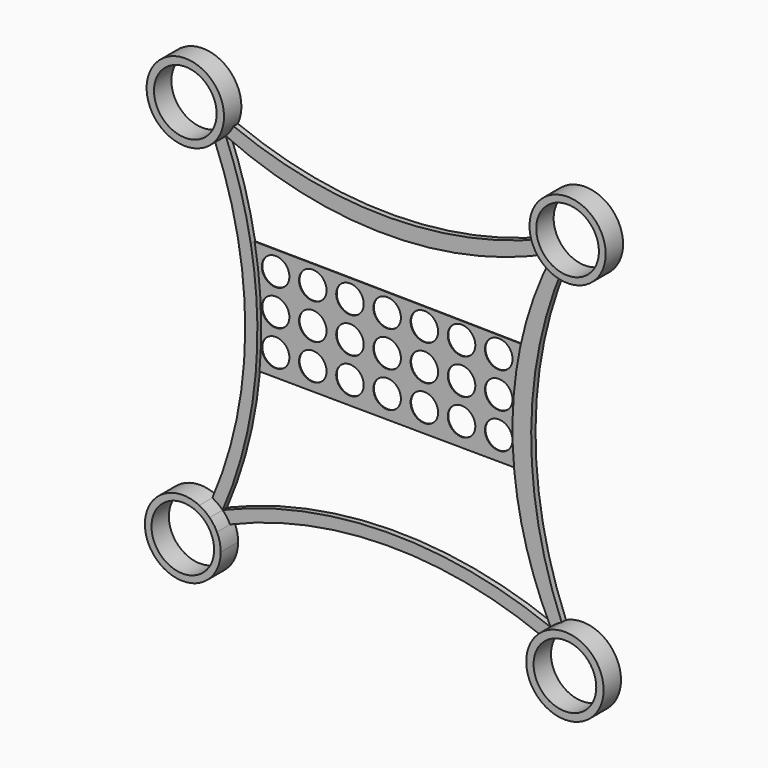
from build123d import *

# Parameters (mm, degrees)
F0_R     = 36.5947560904
F0_R_2   = 36.5964348683
F1_DEPTH = 6.35
F2_DEPTH = 25.4
F0_R_3   = 16.0861270077
F4_DEPTH = 0.762


with BuildPart() as f1:
    # F0 (on Front) → F1 (new body)
    with BuildSketch(Plane.XZ):
        with BuildLine():
            ThreePointArc((188.5982540505, 184.8449959839), (6.2169992483, 146.7538533434), (-176.8098994137, 181.6108700985))
            ThreePointArc((-176.8098994137, 181.6108700985), (-180.7223168449, 174.7262392004), (-185.7909638385, 168.6423284177))
            ThreePointArc((-185.7909638385, 168.6423284177), (6.1536082496, 128.2088675402), (197.1884370844, 172.7428734756))
            ThreePointArc((197.1884370844, 172.7428734756), (192.3851525579, 178.4332152803), (188.5982540505, 184.8449959839))
        make_face()
        with BuildLine():
            ThreePointArc((-189.4134185263, -217.1728797195), (-184.6334375627, -222.8381994872), (-180.8650399113, -229.2212430576))
            ThreePointArc((-180.8650399113, -229.2212430577), (1.5143996628, -191.1214074538), (184.542960009, -225.969700813))
            ThreePointArc((184.542960009, -225.969700813), (188.4782832358, -219.102761645), (193.5517747378, -213.0281170945))
            ThreePointArc((193.5517747378, -213.0281170945), (1.6628304665, -177.5550425479), (-189.4134185263, -217.1728797195))
        make_face()
        with BuildLine():
            ThreePointArc((-185.7909638385, 168.6423284177), (-180.7223168449, 174.7262392004), (-176.8098994137, 181.6108700985))
            ThreePointArc((-176.8098994137, 181.6108700985), (-185.818640213, 168.6699018858), (-198.7259600139, 159.613016956))
            ThreePointArc((-198.7259600139, 159.613016956), (-191.8559511005, 163.5510533052), (-185.7909638385, 168.6423284177))
        make_face()
        with BuildLine():
            ThreePointArc((209.2824572603, 164.1388911845), (197.1933772998, 172.7468130702), (188.5982540505, 184.8449959839))
            ThreePointArc((188.5982540505, 184.8449959839), (192.3851525579, 178.4332152803), (197.1884370844, 172.7428734756))
            ThreePointArc((197.1884370844, 172.7428734756), (202.8741139753, 167.9329813574), (209.2824572603, 164.1388911845))
        make_face()
        with BuildLine():
            ThreePointArc((-189.4134185263, -217.1728797195), (-189.4317221538, -217.1805770734), (-189.4500254799, -217.1882751439))
            ThreePointArc((-189.4500254799, -217.1882751439), (-184.6593067493, -222.8492971242), (-180.8650399113, -229.2212430576))
            ThreePointArc((-180.8650399113, -229.2212430576), (-184.6334375627, -222.8381994872), (-189.4134185263, -217.1728797195))
        make_face()
        with BuildLine():
            ThreePointArc((-189.4343998959, -217.1518790975), (-195.0954466485, -212.3666234088), (-201.4751684195, -208.5923324203))
            ThreePointArc((-201.4751684195, -208.5923324203), (-195.1066812913, -212.3924018294), (-189.4500254799, -217.1882751439))
            ThreePointArc((-189.4500254799, -217.1882751439), (-189.4422123275, -217.1700772754), (-189.4343998959, -217.1518790975))
        make_face()
        with BuildLine():
            ThreePointArc((193.5611194533, -213.0318108647), (199.6168571715, -207.9342533355), (206.4672712931, -203.9682883284))
            ThreePointArc((206.4672712931, -203.9682883284), (199.6138346269, -207.9279426554), (193.5567810212, -213.0230931091))
            ThreePointArc((193.5567810212, -213.0230931091), (193.5589502123, -213.0274519993), (193.5611194533, -213.0318108647))
        make_face()
        with BuildLine():
            ThreePointArc((184.542960009, -225.969700813), (188.4848520946, -219.1054063219), (193.5611194533, -213.0318108647))
            ThreePointArc((193.5611194533, -213.0318108647), (193.5564471047, -213.0299639564), (193.5517747378, -213.0281170945))
            ThreePointArc((193.5517747378, -213.0281170945), (188.4782832358, -219.102761645), (184.542960009, -225.969700813))
        make_face()
        with BuildLine():
            ThreePointArc((209.2824572603, 164.1388911845), (202.8741139753, 167.9329813574), (197.1884370844, 172.7428734756))
            ThreePointArc((197.1884370844, 172.7428734756), (173.8608394568, 119.3607598746), (158.0536671707, 63.2897319912))
            ThreePointArc((158.0536671707, 63.2897319912), (149.6447133976, -1.2966260467), (151.2048073719, -66.4094070881))
            ThreePointArc((151.2048073719, -66.4094070881), (165.7451521785, -141.6330734425), (193.5567810212, -213.0230931091))
            ThreePointArc((193.5567810212, -213.0230931091), (199.6138346269, -207.9279426554), (206.4672712931, -203.9682883284))
            ThreePointArc((206.4672712931, -203.9682883284), (170.9071745934, -19.6319794971), (209.2824572603, 164.1388911845))
        make_face()
        with BuildLine():
            ThreePointArc((-185.7909638385, 168.6423284177), (-191.8559511005, 163.5510533052), (-198.7259600139, 159.613016956))
            ThreePointArc((-198.7259600139, 159.613016956), (-163.1149600765, -24.7658110633), (-201.4751684195, -208.5923324203))
            ThreePointArc((-201.4751684195, -208.5923324203), (-195.0954466485, -212.3666234088), (-189.4343998959, -217.1518790975))
            ThreePointArc((-189.4343998959, -217.1518790975), (-164.1007583774, -142.312832824), (-150.8712536248, -64.417669664))
            ThreePointArc((-150.8712536248, -64.417669664), (-149.3480842089, 1.6053439773), (-156.5386111016, 67.2533043292))
            ThreePointArc((-156.5386111016, 67.2533043292), (-168.4828359414, 118.721602223), (-185.7909638385, 168.6423284177))
        make_face()
        with BuildLine():
            ThreePointArc((-198.7259600139, 159.613016956), (-185.818640213, 168.6699018858), (-176.8098994137, 181.6108700985))
            ThreePointArc((-176.8098994137, 181.6108700985), (-173.6989412825, 190.8575184286), (-172.6455822149, 200.5564359203))
            ThreePointArc((-172.6455822149, 200.5564359203), (-255.9288759313, 224.828589011), (-198.7259600139, 159.613016956))
        make_face()
        with Locations((-217.8241774175, 200.5564359203)):
            Circle(F0_R, mode=Mode.SUBTRACT)
        with BuildLine():
            ThreePointArc((273.1536156326, 204.1844323112), (218.7448667821, 247.5538425266), (188.5982540505, 184.8449959839))
            ThreePointArc((188.5982540505, 184.8449959839), (197.1933772998, 172.7468130702), (209.2824572603, 164.1388911845))
            ThreePointArc((209.2824572603, 164.1388911845), (252.2970589417, 166.4910302494), (273.1536156326, 204.1844323112))
        make_face()
        with Locations((228.6642844479, 204.1844323112)):
            Circle(F0_R_2, mode=Mode.SUBTRACT)
        with BuildLine():
            ThreePointArc((270.7215789425, -244.9095990816), (249.8240085798, -206.8149571431), (206.4672712931, -203.9682883284))
            ThreePointArc((206.4672712931, -203.9682883284), (199.6168571715, -207.9342533355), (193.5611194533, -213.0318108647))
            ThreePointArc((193.5611194533, -213.0318108647), (188.4848520946, -219.1054063219), (184.542960009, -225.969700813))
            ThreePointArc((184.542960009, -225.969700813), (215.8550559689, -289.0272659162), (270.7215789425, -244.9095990816))
        make_face()
        with Locations((225.5510122517, -244.9095990816)):
            Circle(F0_R_2, mode=Mode.SUBTRACT)
        with BuildLine():
            ThreePointArc((-189.4500254799, -217.1882751439), (-195.1066812913, -212.3924018294), (-201.4751684195, -208.5923324203))
            ThreePointArc((-201.4751684195, -208.5923324203), (-258.2891293584, -272.0079714896), (-176.4637429727, -248.4712856786))
            ThreePointArc((-176.4637429727, -248.4712856786), (-177.5780831864, -238.5978926999), (-180.8650399113, -229.2212430576))
            ThreePointArc((-180.8650399113, -229.2212430576), (-184.6593067493, -222.8492971242), (-189.4500254799, -217.1882751439))
        make_face()
        with Locations((-220.7615444029, -248.4712856786)):
            Circle(F0_R_2, mode=Mode.SUBTRACT)
    extrude(amount=F1_DEPTH)

    # F0 (on Front) → F2 (join)
    with BuildSketch(Plane.XZ):
        with BuildLine():
            ThreePointArc((-189.4500254799, -217.1882751439), (-195.1066812913, -212.3924018294), (-201.4751684195, -208.5923324203))
            ThreePointArc((-201.4751684195, -208.5923324203), (-258.2891293584, -272.0079714896), (-176.4637429727, -248.4712856786))
            ThreePointArc((-176.4637429727, -248.4712856786), (-177.5780831864, -238.5978926999), (-180.8650399113, -229.2212430576))
            ThreePointArc((-180.8650399113, -229.2212430576), (-184.6593067493, -222.8492971242), (-189.4500254799, -217.1882751439))
        make_face()
        with Locations((-220.7615444029, -248.4712856786)):
            Circle(F0_R_2, mode=Mode.SUBTRACT)
        with BuildLine():
            ThreePointArc((270.7215789425, -244.9095990816), (249.8240085798, -206.8149571431), (206.4672712931, -203.9682883284))
            ThreePointArc((206.4672712931, -203.9682883284), (199.6168571715, -207.9342533355), (193.5611194533, -213.0318108647))
            ThreePointArc((193.5611194533, -213.0318108647), (188.4848520946, -219.1054063219), (184.542960009, -225.969700813))
            ThreePointArc((184.542960009, -225.969700813), (215.8550559689, -289.0272659162), (270.7215789425, -244.9095990816))
        make_face()
        with Locations((225.5510122517, -244.9095990816)):
            Circle(F0_R_2, mode=Mode.SUBTRACT)
        with BuildLine():
            ThreePointArc((273.1536156326, 204.1844323112), (218.7448667821, 247.5538425266), (188.5982540505, 184.8449959839))
            ThreePointArc((188.5982540505, 184.8449959839), (197.1933772998, 172.7468130702), (209.2824572603, 164.1388911845))
            ThreePointArc((209.2824572603, 164.1388911845), (252.2970589417, 166.4910302494), (273.1536156326, 204.1844323112))
        make_face()
        with Locations((228.6642844479, 204.1844323112)):
            Circle(F0_R_2, mode=Mode.SUBTRACT)
        with BuildLine():
            ThreePointArc((-198.7259600139, 159.613016956), (-185.818640213, 168.6699018858), (-176.8098994137, 181.6108700985))
            ThreePointArc((-176.8098994137, 181.6108700985), (-173.6989412825, 190.8575184286), (-172.6455822149, 200.5564359203))
            ThreePointArc((-172.6455822149, 200.5564359203), (-255.9288759313, 224.828589011), (-198.7259600139, 159.613016956))
        make_face()
        with Locations((-217.8241774175, 200.5564359203)):
            Circle(F0_R, mode=Mode.SUBTRACT)
    extrude(amount=F2_DEPTH)

    # F0 (on Front) → F4 (join)
    with BuildSketch(Plane.XZ):
        with BuildLine():
            ThreePointArc((158.0536671707, 63.2897319912), (0.7607458029, 65.5269153094), (-156.5386111016, 67.2533043292))
            ThreePointArc((-156.5386111016, 67.2533043292), (-149.3480842089, 1.6053439773), (-150.8712536248, -64.417669664))
            ThreePointArc((-150.8712536248, -64.417669664), (0.1662637574, -65.4913599309), (151.2048073719, -66.4094070881))
            ThreePointArc((151.2048073719, -66.4094070881), (149.6447133976, -1.2966260467), (158.0536671707, 63.2897319912))
        make_face()
        with Locations((-132.0719718933, -38.919291311)):
            Circle(F0_R_3, mode=Mode.SUBTRACT)
        with Locations((-88.6379718933, -38.919291311)):
            Circle(F0_R_3, mode=Mode.SUBTRACT)
        with Locations((-45.2039718933, -38.919291311)):
            Circle(F0_R_3, mode=Mode.SUBTRACT)
        with Locations((-1.7699718933, -38.919291311)):
            Circle(F0_R_3, mode=Mode.SUBTRACT)
        with Locations((41.6640281067, -38.919291311)):
            Circle(F0_R_3, mode=Mode.SUBTRACT)
        with Locations((85.0980281067, -38.919291311)):
            Circle(F0_R_3, mode=Mode.SUBTRACT)
        with Locations((128.5320281067, -38.919291311)):
            Circle(F0_R_3, mode=Mode.SUBTRACT)
        with Locations((-132.0719718933, 2.736708689)):
            Circle(F0_R_3, mode=Mode.SUBTRACT)
        with Locations((-132.0719718933, 44.392708689)):
            Circle(F0_R_3, mode=Mode.SUBTRACT)
        with Locations((-88.6379718933, 2.736708689)):
            Circle(F0_R_3, mode=Mode.SUBTRACT)
        with Locations((-88.6379718933, 44.392708689)):
            Circle(F0_R_3, mode=Mode.SUBTRACT)
        with Locations((-45.2039718933, 2.736708689)):
            Circle(F0_R_3, mode=Mode.SUBTRACT)
        with Locations((-1.7699718933, 2.736708689)):
            Circle(F0_R_3, mode=Mode.SUBTRACT)
        with Locations((-45.2039718933, 44.392708689)):
            Circle(F0_R_3, mode=Mode.SUBTRACT)
        with Locations((-1.7699718933, 44.392708689)):
            Circle(F0_R_3, mode=Mode.SUBTRACT)
        with Locations((41.6640281067, 2.736708689)):
            Circle(F0_R_3, mode=Mode.SUBTRACT)
        with Locations((41.6640281067, 44.392708689)):
            Circle(F0_R_3, mode=Mode.SUBTRACT)
        with Locations((85.0980281067, 2.736708689)):
            Circle(F0_R_3, mode=Mode.SUBTRACT)
        with Locations((128.5320281067, 2.736708689)):
            Circle(F0_R_3, mode=Mode.SUBTRACT)
        with Locations((85.0980281067, 44.392708689)):
            Circle(F0_R_3, mode=Mode.SUBTRACT)
        with Locations((128.5320281067, 44.392708689)):
            Circle(F0_R_3, mode=Mode.SUBTRACT)
    extrude(amount=F4_DEPTH)


solid = f1.part
